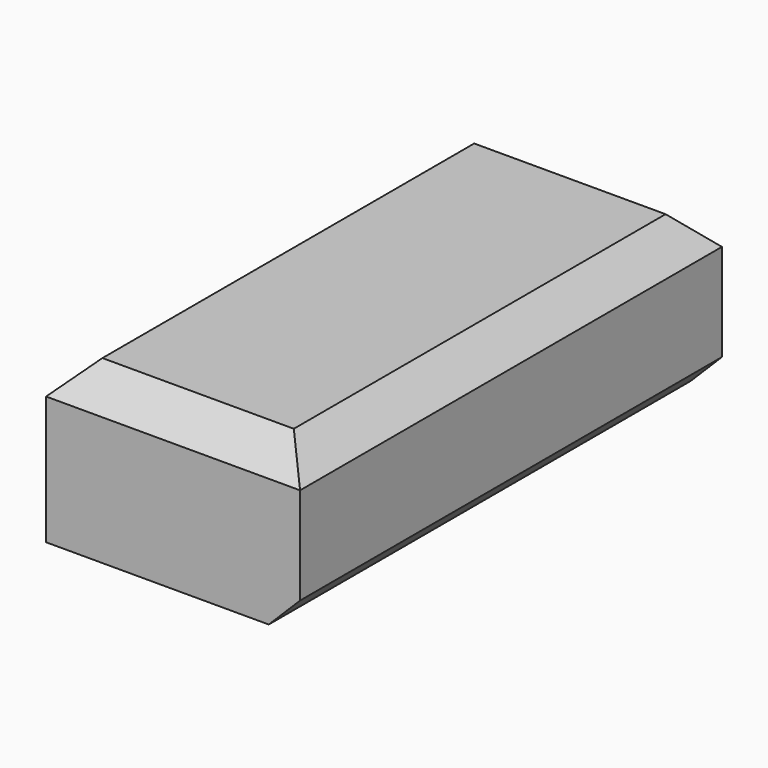
from build123d import *

# Parameters (mm, degrees)
F0_W     = 41.225642
F0_H     = 85.591264
F1_DEPTH = 25.908
F2_SIZE  = 5.08


with BuildPart() as f1:
    # F0 (on Top) → F1 (new body)
    with BuildSketch(Plane.XY):
        with Locations((-106.823012, -1.161329)):
            Rectangle(F0_W, F0_H)
    extrude(amount=F1_DEPTH)

    # F2
    f2_edges = [f1.edges().sort_by_distance(p)[0] for p in [
        (-127.435833, -1.161329, 25.908),
        (-106.823012, -43.956961, 25.908),
        (-86.210191, -1.161329, 25.908),
        (-106.823012, 41.634303, 25.908),
        (-86.210191, -1.161329, 0),
    ]]
    chamfer(f2_edges, length=F2_SIZE)


solid = f1.part
